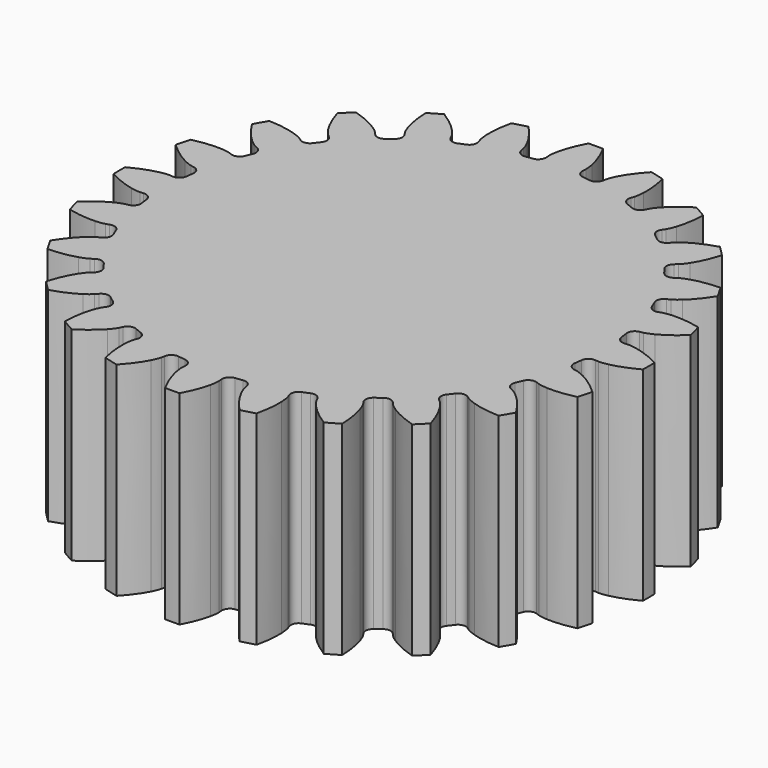
from build123d import *

# Parameters (mm, degrees)
PAD_DEPTH = 15


with BuildPart() as part:
    # InvoluteGear → Pad (new body)
    with BuildSketch(Plane.XY):
        with BuildLine():
            Line((16.641131, -1.340071), (16.88848, -1.358861))
            add(Edge.make_bspline(
                [(16.88848, -1.358861), (16.964059, -1.360558), (17.191713, -1.356955), (17.571029, -1.276517)],
                knots=[0, 0, 0, 0, 1, 1, 1, 1], degree=3))
            add(Edge.make_bspline(
                [(17.571029, -1.276517), (18.025313, -1.178915), (18.680882, -0.97201), (19.494199, -0.536026)],
                knots=[0, 0, 0, 0, 1, 1, 1, 1], degree=3))
            ThreePointArc((19.494199, -0.536026), (19.500784, 0.000296), (19.492616, 0.536595))
            add(Edge.make_bspline(
                [(19.492616, 0.536595), (18.680882, 0.97201), (18.025313, 1.178915), (17.571029, 1.276517)],
                knots=[0, 0, 0, 0, 1, 1, 1, 1], degree=3))
            add(Edge.make_bspline(
                [(17.571029, 1.276517), (17.191713, 1.356955), (16.964059, 1.360558), (16.88848, 1.358861)],
                knots=[0, 0, 0, 0, 1, 1, 1, 1], degree=3))
            Line((16.88848, 1.358861), (16.641131, 1.340071))
            ThreePointArc((16.641131, 1.340071), (16.227617, 1.463874), (16.019445, 1.842007))
            ThreePointArc((16.019445, 1.842007), (15.987048, 2.104735), (15.950343, 2.366895))
            ThreePointArc((15.950343, 2.366895), (16.053553, 2.786023), (16.420934, 3.012633))
            Line((16.420934, 3.012633), (16.664718, 3.058501))
            add(Edge.make_bspline(
                [(16.664718, 3.058501), (16.738161, 3.076423), (16.957125, 3.138825), (17.302698, 3.314696)],
                knots=[0, 0, 0, 0, 1, 1, 1, 1], degree=3))
            add(Edge.make_bspline(
                [(17.302698, 3.314696), (17.716241, 3.52655), (18.295921, 3.896078), (18.968683, 4.527709)],
                knots=[0, 0, 0, 0, 1, 1, 1, 1], degree=3))
            ThreePointArc((18.968683, 4.527709), (18.836234, 5.04746), (18.68954, 5.563371))
            add(Edge.make_bspline(
                [(18.68954, 5.563371), (17.792771, 5.773857), (17.10599, 5.804039), (16.641924, 5.780738)],
                knots=[0, 0, 0, 0, 1, 1, 1, 1], degree=3))
            add(Edge.make_bspline(
                [(16.641924, 5.780738), (16.254714, 5.76026), (16.033884, 5.70482), (15.96132, 5.68362)],
                knots=[0, 0, 0, 0, 1, 1, 1, 1], degree=3))
            Line((15.96132, 5.68362), (15.727262, 5.60145))
            ThreePointArc((15.727262, 5.60145), (15.295796, 5.61401), (14.996849, 5.92538))
            ThreePointArc((14.996849, 5.92538), (14.897557, 6.17077), (14.79425, 6.414497))
            ThreePointArc((14.79425, 6.414497), (14.785466, 6.846057), (15.081677, 7.16003))
            Line((15.081677, 7.16003), (15.305283, 7.267432))
            add(Edge.make_bspline(
                [(15.305283, 7.267432), (15.371585, 7.303751), (15.566938, 7.420699), (15.855216, 7.680018)],
                knots=[0, 0, 0, 0, 1, 1, 1, 1], degree=3))
            add(Edge.make_bspline(
                [(15.855216, 7.680018), (16.199836, 7.991686), (16.664123, 8.498655), (17.150484, 9.282888)],
                knots=[0, 0, 0, 0, 1, 1, 1, 1], degree=3))
            ThreePointArc((17.150484, 9.282888), (16.888026, 9.750648), (16.612803, 10.211013))
            add(Edge.make_bspline(
                [(16.612803, 10.211013), (15.692113, 10.182226), (15.020921, 10.033627), (14.578699, 9.891011)],
                knots=[0, 0, 0, 0, 1, 1, 1, 1], degree=3))
            add(Edge.make_bspline(
                [(14.578699, 9.891011), (14.209983, 9.771014), (14.011027, 9.660307), (13.946422, 9.621049)],
                knots=[0, 0, 0, 0, 1, 1, 1, 1], degree=3))
            Line((13.946422, 9.621049), (13.741607, 9.481101))
            ThreePointArc((13.741607, 9.481101), (13.321592, 9.38156), (12.952243, 9.604948))
            ThreePointArc((12.952243, 9.604948), (12.792823, 9.816278), (12.629954, 10.024963))
            ThreePointArc((12.629954, 10.024963), (12.509773, 10.439543), (12.71463, 10.819483))
            Line((12.71463, 10.819483), (12.902819, 10.981099))
            add(Edge.make_bspline(
                [(12.902819, 10.981099), (12.957461, 11.033341), (13.115889, 11.196865), (13.327228, 11.52196)],
                knots=[0, 0, 0, 0, 1, 1, 1, 1], degree=3))
            add(Edge.make_bspline(
                [(13.327228, 11.52196), (13.57944, 11.912202), (13.896693, 12.522063), (14.163507, 13.405453)],
                knots=[0, 0, 0, 0, 1, 1, 1, 1], degree=3))
            ThreePointArc((14.163507, 13.405453), (13.788927, 13.789345), (13.403931, 14.162791))
            add(Edge.make_bspline(
                [(13.403931, 14.162791), (12.522063, 13.896693), (11.912202, 13.57944), (11.52196, 13.327228)],
                knots=[0, 0, 0, 0, 1, 1, 1, 1], degree=3))
            add(Edge.make_bspline(
                [(11.52196, 13.327228), (11.196865, 13.115889), (11.033341, 12.957461), (10.981099, 12.902819)],
                knots=[0, 0, 0, 0, 1, 1, 1, 1], degree=3))
            Line((10.981099, 12.902819), (10.819483, 12.71463))
            ThreePointArc((10.819483, 12.71463), (10.439543, 12.509773), (10.024963, 12.629954))
            ThreePointArc((10.024963, 12.629954), (9.816278, 12.792823), (9.604948, 12.952243))
            ThreePointArc((9.604948, 12.952243), (9.38156, 13.321592), (9.481101, 13.741607))
            Line((9.481101, 13.741607), (9.621049, 13.946422))
            add(Edge.make_bspline(
                [(9.621049, 13.946422), (9.660307, 14.011027), (9.771014, 14.209983), (9.891011, 14.578699)],
                knots=[0, 0, 0, 0, 1, 1, 1, 1], degree=3))
            add(Edge.make_bspline(
                [(9.891011, 14.578699), (10.033627, 15.020921), (10.182226, 15.692113), (10.211311, 16.614458)],
                knots=[0, 0, 0, 0, 1, 1, 1, 1], degree=3))
            ThreePointArc((10.211311, 16.614458), (9.750136, 16.888322), (9.281603, 17.149398))
            add(Edge.make_bspline(
                [(9.281603, 17.149398), (8.498655, 16.664123), (7.991686, 16.199836), (7.680018, 15.855216)],
                knots=[0, 0, 0, 0, 1, 1, 1, 1], degree=3))
            add(Edge.make_bspline(
                [(7.680018, 15.855216), (7.420699, 15.566938), (7.303751, 15.371585), (7.267432, 15.305283)],
                knots=[0, 0, 0, 0, 1, 1, 1, 1], degree=3))
            Line((7.267432, 15.305283), (7.16003, 15.081677))
            ThreePointArc((7.16003, 15.081677), (6.846057, 14.785466), (6.414497, 14.79425))
            ThreePointArc((6.414497, 14.79425), (6.17077, 14.897557), (5.92538, 14.996849))
            ThreePointArc((5.92538, 14.996849), (5.61401, 15.295796), (5.60145, 15.727262))
            Line((5.60145, 15.727262), (5.68362, 15.96132))
            add(Edge.make_bspline(
                [(5.68362, 15.96132), (5.70482, 16.033884), (5.76026, 16.254714), (5.780738, 16.641924)],
                knots=[0, 0, 0, 0, 1, 1, 1, 1], degree=3))
            add(Edge.make_bspline(
                [(5.780738, 16.641924), (5.804039, 17.10599), (5.773857, 17.792771), (5.563231, 18.691216)],
                knots=[0, 0, 0, 0, 1, 1, 1, 1], degree=3))
            ThreePointArc((5.563231, 18.691216), (5.046889, 18.836387), (4.526749, 18.967302))
            add(Edge.make_bspline(
                [(4.526749, 18.967302), (3.896078, 18.295921), (3.52655, 17.716241), (3.314696, 17.302698)],
                knots=[0, 0, 0, 0, 1, 1, 1, 1], degree=3))
            add(Edge.make_bspline(
                [(3.314696, 17.302698), (3.138825, 16.957125), (3.076423, 16.738161), (3.058501, 16.664718)],
                knots=[0, 0, 0, 0, 1, 1, 1, 1], degree=3))
            Line((3.058501, 16.664718), (3.012633, 16.420934))
            ThreePointArc((3.012633, 16.420934), (2.786023, 16.053553), (2.366895, 15.950343))
            ThreePointArc((2.366895, 15.950343), (2.104735, 15.987048), (1.842007, 16.019445))
            ThreePointArc((1.842007, 16.019445), (1.463874, 16.227617), (1.340071, 16.641131))
            Line((1.340071, 16.641131), (1.358861, 16.88848))
            add(Edge.make_bspline(
                [(1.358861, 16.88848), (1.360558, 16.964059), (1.356955, 17.191713), (1.276517, 17.571029)],
                knots=[0, 0, 0, 0, 1, 1, 1, 1], degree=3))
            add(Edge.make_bspline(
                [(1.276517, 17.571029), (1.178915, 18.025313), (0.97201, 18.680882), (0.536026, 19.494199)],
                knots=[0, 0, 0, 0, 1, 1, 1, 1], degree=3))
            ThreePointArc((0.536026, 19.494199), (-0.000296, 19.500784), (-0.536595, 19.492616))
            add(Edge.make_bspline(
                [(-0.536595, 19.492616), (-0.97201, 18.680882), (-1.178915, 18.025313), (-1.276517, 17.571029)],
                knots=[0, 0, 0, 0, 1, 1, 1, 1], degree=3))
            add(Edge.make_bspline(
                [(-1.276517, 17.571029), (-1.356955, 17.191713), (-1.360558, 16.964059), (-1.358861, 16.88848)],
                knots=[0, 0, 0, 0, 1, 1, 1, 1], degree=3))
            Line((-1.358861, 16.88848), (-1.340071, 16.641131))
            ThreePointArc((-1.340071, 16.641131), (-1.463874, 16.227617), (-1.842007, 16.019445))
            ThreePointArc((-1.842007, 16.019445), (-2.104735, 15.987048), (-2.366895, 15.950343))
            ThreePointArc((-2.366895, 15.950343), (-2.786023, 16.053553), (-3.012633, 16.420934))
            Line((-3.012633, 16.420934), (-3.058501, 16.664718))
            add(Edge.make_bspline(
                [(-3.058501, 16.664718), (-3.076423, 16.738161), (-3.138825, 16.957125), (-3.314696, 17.302698)],
                knots=[0, 0, 0, 0, 1, 1, 1, 1], degree=3))
            add(Edge.make_bspline(
                [(-3.314696, 17.302698), (-3.52655, 17.716241), (-3.896078, 18.295921), (-4.527709, 18.968683)],
                knots=[0, 0, 0, 0, 1, 1, 1, 1], degree=3))
            ThreePointArc((-4.527709, 18.968683), (-5.04746, 18.836234), (-5.563371, 18.68954))
            add(Edge.make_bspline(
                [(-5.563371, 18.68954), (-5.773857, 17.792771), (-5.804039, 17.10599), (-5.780738, 16.641924)],
                knots=[0, 0, 0, 0, 1, 1, 1, 1], degree=3))
            add(Edge.make_bspline(
                [(-5.780738, 16.641924), (-5.76026, 16.254714), (-5.70482, 16.033884), (-5.68362, 15.96132)],
                knots=[0, 0, 0, 0, 1, 1, 1, 1], degree=3))
            Line((-5.68362, 15.96132), (-5.60145, 15.727262))
            ThreePointArc((-5.60145, 15.727262), (-5.61401, 15.295796), (-5.92538, 14.996849))
            ThreePointArc((-5.92538, 14.996849), (-6.17077, 14.897557), (-6.414497, 14.79425))
            ThreePointArc((-6.414497, 14.79425), (-6.846057, 14.785466), (-7.16003, 15.081677))
            Line((-7.16003, 15.081677), (-7.267432, 15.305283))
            add(Edge.make_bspline(
                [(-7.267432, 15.305283), (-7.303751, 15.371585), (-7.420699, 15.566938), (-7.680018, 15.855216)],
                knots=[0, 0, 0, 0, 1, 1, 1, 1], degree=3))
            add(Edge.make_bspline(
                [(-7.680018, 15.855216), (-7.991686, 16.199836), (-8.498655, 16.664123), (-9.282888, 17.150484)],
                knots=[0, 0, 0, 0, 1, 1, 1, 1], degree=3))
            ThreePointArc((-9.282888, 17.150484), (-9.750648, 16.888026), (-10.211013, 16.612803))
            add(Edge.make_bspline(
                [(-10.211013, 16.612803), (-10.182226, 15.692113), (-10.033627, 15.020921), (-9.891011, 14.578699)],
                knots=[0, 0, 0, 0, 1, 1, 1, 1], degree=3))
            add(Edge.make_bspline(
                [(-9.891011, 14.578699), (-9.771014, 14.209983), (-9.660307, 14.011027), (-9.621049, 13.946422)],
                knots=[0, 0, 0, 0, 1, 1, 1, 1], degree=3))
            Line((-9.621049, 13.946422), (-9.481101, 13.741607))
            ThreePointArc((-9.481101, 13.741607), (-9.38156, 13.321592), (-9.604948, 12.952243))
            ThreePointArc((-9.604948, 12.952243), (-9.816278, 12.792823), (-10.024963, 12.629954))
            ThreePointArc((-10.024963, 12.629954), (-10.439543, 12.509773), (-10.819483, 12.71463))
            Line((-10.819483, 12.71463), (-10.981099, 12.902819))
            add(Edge.make_bspline(
                [(-10.981099, 12.902819), (-11.033341, 12.957461), (-11.196865, 13.115889), (-11.52196, 13.327228)],
                knots=[0, 0, 0, 0, 1, 1, 1, 1], degree=3))
            add(Edge.make_bspline(
                [(-11.52196, 13.327228), (-11.912202, 13.57944), (-12.522063, 13.896693), (-13.405453, 14.163507)],
                knots=[0, 0, 0, 0, 1, 1, 1, 1], degree=3))
            ThreePointArc((-13.405453, 14.163507), (-13.789345, 13.788927), (-14.162791, 13.403931))
            add(Edge.make_bspline(
                [(-14.162791, 13.403931), (-13.896693, 12.522063), (-13.57944, 11.912202), (-13.327228, 11.52196)],
                knots=[0, 0, 0, 0, 1, 1, 1, 1], degree=3))
            add(Edge.make_bspline(
                [(-13.327228, 11.52196), (-13.115889, 11.196865), (-12.957461, 11.033341), (-12.902819, 10.981099)],
                knots=[0, 0, 0, 0, 1, 1, 1, 1], degree=3))
            Line((-12.902819, 10.981099), (-12.71463, 10.819483))
            ThreePointArc((-12.71463, 10.819483), (-12.509773, 10.439543), (-12.629954, 10.024963))
            ThreePointArc((-12.629954, 10.024963), (-12.792823, 9.816278), (-12.952243, 9.604948))
            ThreePointArc((-12.952243, 9.604948), (-13.321592, 9.38156), (-13.741607, 9.481101))
            Line((-13.741607, 9.481101), (-13.946422, 9.621049))
            add(Edge.make_bspline(
                [(-13.946422, 9.621049), (-14.011027, 9.660307), (-14.209983, 9.771014), (-14.578699, 9.891011)],
                knots=[0, 0, 0, 0, 1, 1, 1, 1], degree=3))
            add(Edge.make_bspline(
                [(-14.578699, 9.891011), (-15.020921, 10.033627), (-15.692113, 10.182226), (-16.614458, 10.211311)],
                knots=[0, 0, 0, 0, 1, 1, 1, 1], degree=3))
            ThreePointArc((-16.614458, 10.211311), (-16.888322, 9.750136), (-17.149398, 9.281603))
            add(Edge.make_bspline(
                [(-17.149398, 9.281603), (-16.664123, 8.498655), (-16.199836, 7.991686), (-15.855216, 7.680018)],
                knots=[0, 0, 0, 0, 1, 1, 1, 1], degree=3))
            add(Edge.make_bspline(
                [(-15.855216, 7.680018), (-15.566938, 7.420699), (-15.371585, 7.303751), (-15.305283, 7.267432)],
                knots=[0, 0, 0, 0, 1, 1, 1, 1], degree=3))
            Line((-15.305283, 7.267432), (-15.081677, 7.16003))
            ThreePointArc((-15.081677, 7.16003), (-14.785466, 6.846057), (-14.79425, 6.414497))
            ThreePointArc((-14.79425, 6.414497), (-14.897557, 6.17077), (-14.996849, 5.92538))
            ThreePointArc((-14.996849, 5.92538), (-15.295796, 5.61401), (-15.727262, 5.60145))
            Line((-15.727262, 5.60145), (-15.96132, 5.68362))
            add(Edge.make_bspline(
                [(-15.96132, 5.68362), (-16.033884, 5.70482), (-16.254714, 5.76026), (-16.641924, 5.780738)],
                knots=[0, 0, 0, 0, 1, 1, 1, 1], degree=3))
            add(Edge.make_bspline(
                [(-16.641924, 5.780738), (-17.10599, 5.804039), (-17.792771, 5.773857), (-18.691216, 5.563231)],
                knots=[0, 0, 0, 0, 1, 1, 1, 1], degree=3))
            ThreePointArc((-18.691216, 5.563231), (-18.836387, 5.046889), (-18.967302, 4.526749))
            add(Edge.make_bspline(
                [(-18.967302, 4.526749), (-18.295921, 3.896078), (-17.716241, 3.52655), (-17.302698, 3.314696)],
                knots=[0, 0, 0, 0, 1, 1, 1, 1], degree=3))
            add(Edge.make_bspline(
                [(-17.302698, 3.314696), (-16.957125, 3.138825), (-16.738161, 3.076423), (-16.664718, 3.058501)],
                knots=[0, 0, 0, 0, 1, 1, 1, 1], degree=3))
            Line((-16.664718, 3.058501), (-16.420934, 3.012633))
            ThreePointArc((-16.420934, 3.012633), (-16.053553, 2.786023), (-15.950343, 2.366895))
            ThreePointArc((-15.950343, 2.366895), (-15.987048, 2.104735), (-16.019445, 1.842007))
            ThreePointArc((-16.019445, 1.842007), (-16.227617, 1.463874), (-16.641131, 1.340071))
            Line((-16.641131, 1.340071), (-16.88848, 1.358861))
            add(Edge.make_bspline(
                [(-16.88848, 1.358861), (-16.964059, 1.360558), (-17.191713, 1.356955), (-17.571029, 1.276517)],
                knots=[0, 0, 0, 0, 1, 1, 1, 1], degree=3))
            add(Edge.make_bspline(
                [(-17.571029, 1.276517), (-18.025313, 1.178915), (-18.680882, 0.97201), (-19.494199, 0.536026)],
                knots=[0, 0, 0, 0, 1, 1, 1, 1], degree=3))
            ThreePointArc((-19.494199, 0.536026), (-19.500784, -0.000296), (-19.492616, -0.536595))
            add(Edge.make_bspline(
                [(-19.492616, -0.536595), (-18.680882, -0.97201), (-18.025313, -1.178915), (-17.571029, -1.276517)],
                knots=[0, 0, 0, 0, 1, 1, 1, 1], degree=3))
            add(Edge.make_bspline(
                [(-17.571029, -1.276517), (-17.191713, -1.356955), (-16.964059, -1.360558), (-16.88848, -1.358861)],
                knots=[0, 0, 0, 0, 1, 1, 1, 1], degree=3))
            Line((-16.88848, -1.358861), (-16.641131, -1.340071))
            ThreePointArc((-16.641131, -1.340071), (-16.227617, -1.463874), (-16.019445, -1.842007))
            ThreePointArc((-16.019445, -1.842007), (-15.987048, -2.104735), (-15.950343, -2.366895))
            ThreePointArc((-15.950343, -2.366895), (-16.053553, -2.786023), (-16.420934, -3.012633))
            Line((-16.420934, -3.012633), (-16.664718, -3.058501))
            add(Edge.make_bspline(
                [(-16.664718, -3.058501), (-16.738161, -3.076423), (-16.957125, -3.138825), (-17.302698, -3.314696)],
                knots=[0, 0, 0, 0, 1, 1, 1, 1], degree=3))
            add(Edge.make_bspline(
                [(-17.302698, -3.314696), (-17.716241, -3.52655), (-18.295921, -3.896078), (-18.968683, -4.527709)],
                knots=[0, 0, 0, 0, 1, 1, 1, 1], degree=3))
            ThreePointArc((-18.968683, -4.527709), (-18.836234, -5.04746), (-18.68954, -5.563371))
            add(Edge.make_bspline(
                [(-18.68954, -5.563371), (-17.792771, -5.773857), (-17.10599, -5.804039), (-16.641924, -5.780738)],
                knots=[0, 0, 0, 0, 1, 1, 1, 1], degree=3))
            add(Edge.make_bspline(
                [(-16.641924, -5.780738), (-16.254714, -5.76026), (-16.033884, -5.70482), (-15.96132, -5.68362)],
                knots=[0, 0, 0, 0, 1, 1, 1, 1], degree=3))
            Line((-15.96132, -5.68362), (-15.727262, -5.60145))
            ThreePointArc((-15.727262, -5.60145), (-15.295796, -5.61401), (-14.996849, -5.92538))
            ThreePointArc((-14.996849, -5.92538), (-14.897557, -6.17077), (-14.79425, -6.414497))
            ThreePointArc((-14.79425, -6.414497), (-14.785466, -6.846057), (-15.081677, -7.16003))
            Line((-15.081677, -7.16003), (-15.305283, -7.267432))
            add(Edge.make_bspline(
                [(-15.305283, -7.267432), (-15.371585, -7.303751), (-15.566938, -7.420699), (-15.855216, -7.680018)],
                knots=[0, 0, 0, 0, 1, 1, 1, 1], degree=3))
            add(Edge.make_bspline(
                [(-15.855216, -7.680018), (-16.199836, -7.991686), (-16.664123, -8.498655), (-17.150484, -9.282888)],
                knots=[0, 0, 0, 0, 1, 1, 1, 1], degree=3))
            ThreePointArc((-17.150484, -9.282888), (-16.888026, -9.750648), (-16.612803, -10.211013))
            add(Edge.make_bspline(
                [(-16.612803, -10.211013), (-15.692113, -10.182226), (-15.020921, -10.033627), (-14.578699, -9.891011)],
                knots=[0, 0, 0, 0, 1, 1, 1, 1], degree=3))
            add(Edge.make_bspline(
                [(-14.578699, -9.891011), (-14.209983, -9.771014), (-14.011027, -9.660307), (-13.946422, -9.621049)],
                knots=[0, 0, 0, 0, 1, 1, 1, 1], degree=3))
            Line((-13.946422, -9.621049), (-13.741607, -9.481101))
            ThreePointArc((-13.741607, -9.481101), (-13.321592, -9.38156), (-12.952243, -9.604948))
            ThreePointArc((-12.952243, -9.604948), (-12.792823, -9.816278), (-12.629954, -10.024963))
            ThreePointArc((-12.629954, -10.024963), (-12.509773, -10.439543), (-12.71463, -10.819483))
            Line((-12.71463, -10.819483), (-12.902819, -10.981099))
            add(Edge.make_bspline(
                [(-12.902819, -10.981099), (-12.957461, -11.033341), (-13.115889, -11.196865), (-13.327228, -11.52196)],
                knots=[0, 0, 0, 0, 1, 1, 1, 1], degree=3))
            add(Edge.make_bspline(
                [(-13.327228, -11.52196), (-13.57944, -11.912202), (-13.896693, -12.522063), (-14.163507, -13.405453)],
                knots=[0, 0, 0, 0, 1, 1, 1, 1], degree=3))
            ThreePointArc((-14.163507, -13.405453), (-13.788927, -13.789345), (-13.403931, -14.162791))
            add(Edge.make_bspline(
                [(-13.403931, -14.162791), (-12.522063, -13.896693), (-11.912202, -13.57944), (-11.52196, -13.327228)],
                knots=[0, 0, 0, 0, 1, 1, 1, 1], degree=3))
            add(Edge.make_bspline(
                [(-11.52196, -13.327228), (-11.196865, -13.115889), (-11.033341, -12.957461), (-10.981099, -12.902819)],
                knots=[0, 0, 0, 0, 1, 1, 1, 1], degree=3))
            Line((-10.981099, -12.902819), (-10.819483, -12.71463))
            ThreePointArc((-10.819483, -12.71463), (-10.439543, -12.509773), (-10.024963, -12.629954))
            ThreePointArc((-10.024963, -12.629954), (-9.816278, -12.792823), (-9.604948, -12.952243))
            ThreePointArc((-9.604948, -12.952243), (-9.38156, -13.321592), (-9.481101, -13.741607))
            Line((-9.481101, -13.741607), (-9.621049, -13.946422))
            add(Edge.make_bspline(
                [(-9.621049, -13.946422), (-9.660307, -14.011027), (-9.771014, -14.209983), (-9.891011, -14.578699)],
                knots=[0, 0, 0, 0, 1, 1, 1, 1], degree=3))
            add(Edge.make_bspline(
                [(-9.891011, -14.578699), (-10.033627, -15.020921), (-10.182226, -15.692113), (-10.211311, -16.614458)],
                knots=[0, 0, 0, 0, 1, 1, 1, 1], degree=3))
            ThreePointArc((-10.211311, -16.614458), (-9.750136, -16.888322), (-9.281603, -17.149398))
            add(Edge.make_bspline(
                [(-9.281603, -17.149398), (-8.498655, -16.664123), (-7.991686, -16.199836), (-7.680018, -15.855216)],
                knots=[0, 0, 0, 0, 1, 1, 1, 1], degree=3))
            add(Edge.make_bspline(
                [(-7.680018, -15.855216), (-7.420699, -15.566938), (-7.303751, -15.371585), (-7.267432, -15.305283)],
                knots=[0, 0, 0, 0, 1, 1, 1, 1], degree=3))
            Line((-7.267432, -15.305283), (-7.16003, -15.081677))
            ThreePointArc((-7.16003, -15.081677), (-6.846057, -14.785466), (-6.414497, -14.79425))
            ThreePointArc((-6.414497, -14.79425), (-6.17077, -14.897557), (-5.92538, -14.996849))
            ThreePointArc((-5.92538, -14.996849), (-5.61401, -15.295796), (-5.60145, -15.727262))
            Line((-5.60145, -15.727262), (-5.68362, -15.96132))
            add(Edge.make_bspline(
                [(-5.68362, -15.96132), (-5.70482, -16.033884), (-5.76026, -16.254714), (-5.780738, -16.641924)],
                knots=[0, 0, 0, 0, 1, 1, 1, 1], degree=3))
            add(Edge.make_bspline(
                [(-5.780738, -16.641924), (-5.804039, -17.10599), (-5.773857, -17.792771), (-5.563231, -18.691216)],
                knots=[0, 0, 0, 0, 1, 1, 1, 1], degree=3))
            ThreePointArc((-5.563231, -18.691216), (-5.046889, -18.836387), (-4.526749, -18.967302))
            add(Edge.make_bspline(
                [(-4.526749, -18.967302), (-3.896078, -18.295921), (-3.52655, -17.716241), (-3.314696, -17.302698)],
                knots=[0, 0, 0, 0, 1, 1, 1, 1], degree=3))
            add(Edge.make_bspline(
                [(-3.314696, -17.302698), (-3.138825, -16.957125), (-3.076423, -16.738161), (-3.058501, -16.664718)],
                knots=[0, 0, 0, 0, 1, 1, 1, 1], degree=3))
            Line((-3.058501, -16.664718), (-3.012633, -16.420934))
            ThreePointArc((-3.012633, -16.420934), (-2.786023, -16.053553), (-2.366895, -15.950343))
            ThreePointArc((-2.366895, -15.950343), (-2.104735, -15.987048), (-1.842007, -16.019445))
            ThreePointArc((-1.842007, -16.019445), (-1.463874, -16.227617), (-1.340071, -16.641131))
            Line((-1.340071, -16.641131), (-1.358861, -16.88848))
            add(Edge.make_bspline(
                [(-1.358861, -16.88848), (-1.360558, -16.964059), (-1.356955, -17.191713), (-1.276517, -17.571029)],
                knots=[0, 0, 0, 0, 1, 1, 1, 1], degree=3))
            add(Edge.make_bspline(
                [(-1.276517, -17.571029), (-1.178915, -18.025313), (-0.97201, -18.680882), (-0.536026, -19.494199)],
                knots=[0, 0, 0, 0, 1, 1, 1, 1], degree=3))
            ThreePointArc((-0.536026, -19.494199), (0.000296, -19.500784), (0.536595, -19.492616))
            add(Edge.make_bspline(
                [(0.536595, -19.492616), (0.97201, -18.680882), (1.178915, -18.025313), (1.276517, -17.571029)],
                knots=[0, 0, 0, 0, 1, 1, 1, 1], degree=3))
            add(Edge.make_bspline(
                [(1.276517, -17.571029), (1.356955, -17.191713), (1.360558, -16.964059), (1.358861, -16.88848)],
                knots=[0, 0, 0, 0, 1, 1, 1, 1], degree=3))
            Line((1.358861, -16.88848), (1.340071, -16.641131))
            ThreePointArc((1.340071, -16.641131), (1.463874, -16.227617), (1.842007, -16.019445))
            ThreePointArc((1.842007, -16.019445), (2.104735, -15.987048), (2.366895, -15.950343))
            ThreePointArc((2.366895, -15.950343), (2.786023, -16.053553), (3.012633, -16.420934))
            Line((3.012633, -16.420934), (3.058501, -16.664718))
            add(Edge.make_bspline(
                [(3.058501, -16.664718), (3.076423, -16.738161), (3.138825, -16.957125), (3.314696, -17.302698)],
                knots=[0, 0, 0, 0, 1, 1, 1, 1], degree=3))
            add(Edge.make_bspline(
                [(3.314696, -17.302698), (3.52655, -17.716241), (3.896078, -18.295921), (4.527709, -18.968683)],
                knots=[0, 0, 0, 0, 1, 1, 1, 1], degree=3))
            ThreePointArc((4.527709, -18.968683), (5.04746, -18.836234), (5.563371, -18.68954))
            add(Edge.make_bspline(
                [(5.563371, -18.68954), (5.773857, -17.792771), (5.804039, -17.10599), (5.780738, -16.641924)],
                knots=[0, 0, 0, 0, 1, 1, 1, 1], degree=3))
            add(Edge.make_bspline(
                [(5.780738, -16.641924), (5.76026, -16.254714), (5.70482, -16.033884), (5.68362, -15.96132)],
                knots=[0, 0, 0, 0, 1, 1, 1, 1], degree=3))
            Line((5.68362, -15.96132), (5.60145, -15.727262))
            ThreePointArc((5.60145, -15.727262), (5.61401, -15.295796), (5.92538, -14.996849))
            ThreePointArc((5.92538, -14.996849), (6.17077, -14.897557), (6.414497, -14.79425))
            ThreePointArc((6.414497, -14.79425), (6.846057, -14.785466), (7.16003, -15.081677))
            Line((7.16003, -15.081677), (7.267432, -15.305283))
            add(Edge.make_bspline(
                [(7.267432, -15.305283), (7.303751, -15.371585), (7.420699, -15.566938), (7.680018, -15.855216)],
                knots=[0, 0, 0, 0, 1, 1, 1, 1], degree=3))
            add(Edge.make_bspline(
                [(7.680018, -15.855216), (7.991686, -16.199836), (8.498655, -16.664123), (9.282888, -17.150484)],
                knots=[0, 0, 0, 0, 1, 1, 1, 1], degree=3))
            ThreePointArc((9.282888, -17.150484), (9.750648, -16.888026), (10.211013, -16.612803))
            add(Edge.make_bspline(
                [(10.211013, -16.612803), (10.182226, -15.692113), (10.033627, -15.020921), (9.891011, -14.578699)],
                knots=[0, 0, 0, 0, 1, 1, 1, 1], degree=3))
            add(Edge.make_bspline(
                [(9.891011, -14.578699), (9.771014, -14.209983), (9.660307, -14.011027), (9.621049, -13.946422)],
                knots=[0, 0, 0, 0, 1, 1, 1, 1], degree=3))
            Line((9.621049, -13.946422), (9.481101, -13.741607))
            ThreePointArc((9.481101, -13.741607), (9.38156, -13.321592), (9.604948, -12.952243))
            ThreePointArc((9.604948, -12.952243), (9.816278, -12.792823), (10.024963, -12.629954))
            ThreePointArc((10.024963, -12.629954), (10.439543, -12.509773), (10.819483, -12.71463))
            Line((10.819483, -12.71463), (10.981099, -12.902819))
            add(Edge.make_bspline(
                [(10.981099, -12.902819), (11.033341, -12.957461), (11.196865, -13.115889), (11.52196, -13.327228)],
                knots=[0, 0, 0, 0, 1, 1, 1, 1], degree=3))
            add(Edge.make_bspline(
                [(11.52196, -13.327228), (11.912202, -13.57944), (12.522063, -13.896693), (13.405453, -14.163507)],
                knots=[0, 0, 0, 0, 1, 1, 1, 1], degree=3))
            ThreePointArc((13.405453, -14.163507), (13.789345, -13.788927), (14.162791, -13.403931))
            add(Edge.make_bspline(
                [(14.162791, -13.403931), (13.896693, -12.522063), (13.57944, -11.912202), (13.327228, -11.52196)],
                knots=[0, 0, 0, 0, 1, 1, 1, 1], degree=3))
            add(Edge.make_bspline(
                [(13.327228, -11.52196), (13.115889, -11.196865), (12.957461, -11.033341), (12.902819, -10.981099)],
                knots=[0, 0, 0, 0, 1, 1, 1, 1], degree=3))
            Line((12.902819, -10.981099), (12.71463, -10.819483))
            ThreePointArc((12.71463, -10.819483), (12.509773, -10.439543), (12.629954, -10.024963))
            ThreePointArc((12.629954, -10.024963), (12.792823, -9.816278), (12.952243, -9.604948))
            ThreePointArc((12.952243, -9.604948), (13.321592, -9.38156), (13.741607, -9.481101))
            Line((13.741607, -9.481101), (13.946422, -9.621049))
            add(Edge.make_bspline(
                [(13.946422, -9.621049), (14.011027, -9.660307), (14.209983, -9.771014), (14.578699, -9.891011)],
                knots=[0, 0, 0, 0, 1, 1, 1, 1], degree=3))
            add(Edge.make_bspline(
                [(14.578699, -9.891011), (15.020921, -10.033627), (15.692113, -10.182226), (16.614458, -10.211311)],
                knots=[0, 0, 0, 0, 1, 1, 1, 1], degree=3))
            ThreePointArc((16.614458, -10.211311), (16.888322, -9.750136), (17.149398, -9.281603))
            add(Edge.make_bspline(
                [(17.149398, -9.281603), (16.664123, -8.498655), (16.199836, -7.991686), (15.855216, -7.680018)],
                knots=[0, 0, 0, 0, 1, 1, 1, 1], degree=3))
            add(Edge.make_bspline(
                [(15.855216, -7.680018), (15.566938, -7.420699), (15.371585, -7.303751), (15.305283, -7.267432)],
                knots=[0, 0, 0, 0, 1, 1, 1, 1], degree=3))
            Line((15.305283, -7.267432), (15.081677, -7.16003))
            ThreePointArc((15.081677, -7.16003), (14.785466, -6.846057), (14.79425, -6.414497))
            ThreePointArc((14.79425, -6.414497), (14.897557, -6.17077), (14.996849, -5.92538))
            ThreePointArc((14.996849, -5.92538), (15.295796, -5.61401), (15.727262, -5.60145))
            Line((15.727262, -5.60145), (15.96132, -5.68362))
            add(Edge.make_bspline(
                [(15.96132, -5.68362), (16.033884, -5.70482), (16.254714, -5.76026), (16.641924, -5.780738)],
                knots=[0, 0, 0, 0, 1, 1, 1, 1], degree=3))
            add(Edge.make_bspline(
                [(16.641924, -5.780738), (17.10599, -5.804039), (17.792771, -5.773857), (18.691216, -5.563231)],
                knots=[0, 0, 0, 0, 1, 1, 1, 1], degree=3))
            ThreePointArc((18.691216, -5.563231), (18.836387, -5.046889), (18.967302, -4.526749))
            add(Edge.make_bspline(
                [(18.967302, -4.526749), (18.295921, -3.896078), (17.716241, -3.52655), (17.302698, -3.314696)],
                knots=[0, 0, 0, 0, 1, 1, 1, 1], degree=3))
            add(Edge.make_bspline(
                [(17.302698, -3.314696), (16.957125, -3.138825), (16.738161, -3.076423), (16.664718, -3.058501)],
                knots=[0, 0, 0, 0, 1, 1, 1, 1], degree=3))
            Line((16.664718, -3.058501), (16.420934, -3.012633))
            ThreePointArc((16.420934, -3.012633), (16.053553, -2.786023), (15.950343, -2.366895))
            ThreePointArc((15.950343, -2.366895), (15.987048, -2.104735), (16.019445, -1.842007))
            ThreePointArc((16.019445, -1.842007), (16.227617, -1.463874), (16.641131, -1.340071))
        make_face()
    extrude(amount=PAD_DEPTH)


solid = part.part
